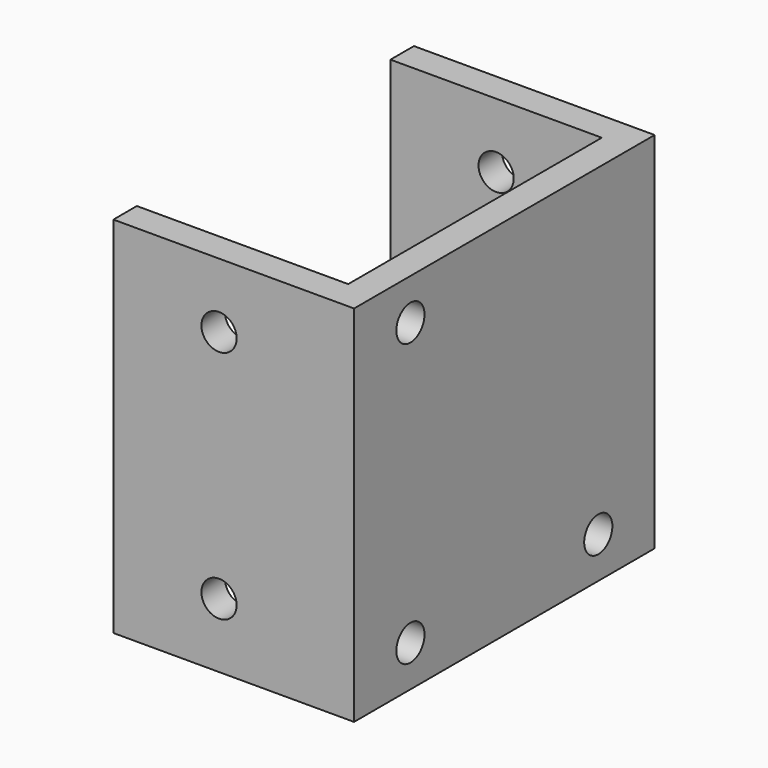
from build123d import *

# Parameters (mm, degrees)
F0_W     = 27
F0_H     = 31
F1_DEPTH = 2.5
F2_W     = 20.5
F2_H     = 31
F3_DEPTH = 2.5
F4_W     = 20.5
F4_H     = 31
F5_DEPTH = 2.5
F6_R     = 1.5
F7_DEPTH = 20.501
F8_R     = 1.5
F9_DEPTH = 32.001


with BuildPart() as f1:
    # F0 (on Right) → F1 (new body)
    with BuildSketch(Plane.YZ):
        Rectangle(F0_W, F0_H)
    extrude(amount=F1_DEPTH)

    # F2 (on face) → F3 (join)
    with BuildSketch(Plane(origin=(0, 13.5, 0), x_dir=(-1, 0, 0), z_dir=(0, 1, 0))):
        with Locations((7.75, 0)):
            Rectangle(F2_W, F2_H)
    extrude(amount=F3_DEPTH)

    # F4 (on face) → F5 (join)
    with BuildSketch(Plane.XZ.offset(13.5)):
        with Locations((-7.75, 0)):
            Rectangle(F4_W, F4_H)
    extrude(amount=F5_DEPTH)

    # F6 (on face) → F7 (cut, through all)
    with BuildSketch(Plane.YZ.offset(2.5)):
        with Locations((-10, -12)):
            Circle(F6_R)
        with Locations((-10, 12)):
            Circle(F6_R)
        with Locations((10, -12)):
            Circle(F6_R)
    extrude(amount=-F7_DEPTH, mode=Mode.SUBTRACT)

    # F8 (on face) → F9 (cut, through all)
    with BuildSketch(Plane.XZ.offset(16)):
        with Locations((-9, 10)):
            Circle(F8_R)
        with Locations((-9, -10)):
            Circle(F8_R)
    extrude(amount=-F9_DEPTH, mode=Mode.SUBTRACT)


solid = f1.part
